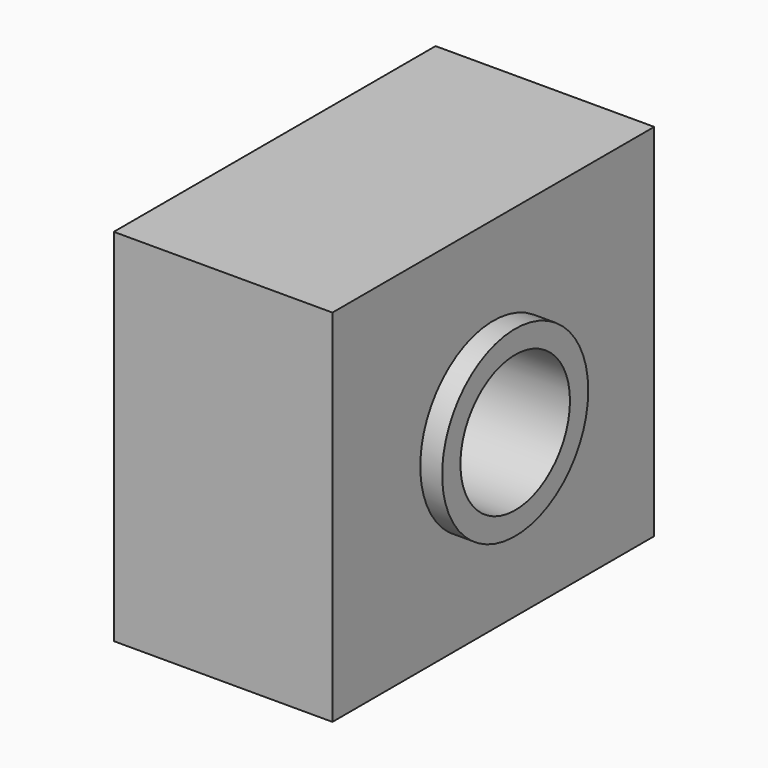
from build123d import *

# Parameters (mm, degrees)
F0_W     = 116.807848
F0_H     = 104.654432
F0_R     = 26.517861
F1_DEPTH = 31.75
F0_R_2   = 19.881623
F2_DEPTH = 38.1


with BuildPart() as f1:
    # F0 (on Right) → F1 (new body, symmetric)
    with BuildSketch(Plane.YZ):
        Rectangle(F0_W, F0_H)
        Circle(F0_R, mode=Mode.SUBTRACT)
    extrude(amount=F1_DEPTH, both=True)

    # F0 (on Right) → F2 (join, symmetric)
    with BuildSketch(Plane.YZ):
        Circle(F0_R)
        Circle(F0_R_2, mode=Mode.SUBTRACT)
    extrude(amount=F2_DEPTH, both=True)


solid = f1.part
